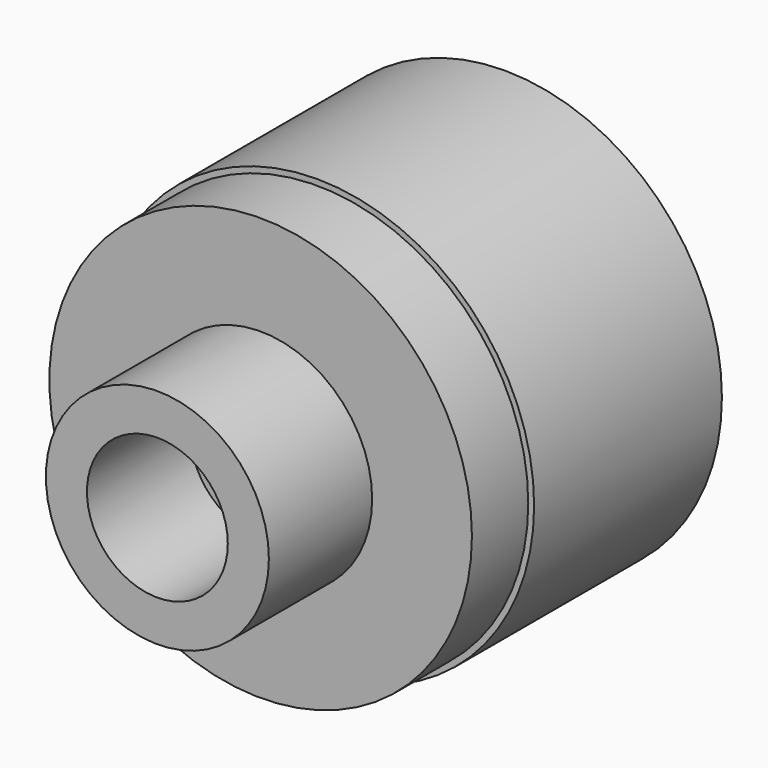
from build123d import *

# Parameters (mm, degrees)
F0_R     = 3.7
F0_R_2   = 3.2
F1_DEPTH = 4
F2_R     = 3.6
F3_DEPTH = 1.2
F4_R     = 1.9
F4_R_2   = 1.2
F5_DEPTH = 2.2


with BuildPart() as f1:
    # F0 (on Front) → F1 (new body)
    with BuildSketch(Plane.XZ):
        Circle(F0_R)
        Circle(F0_R_2, mode=Mode.SUBTRACT)
    extrude(amount=F1_DEPTH)

    # F2 (on face) → F3 (join)
    with BuildSketch(Plane.XZ.offset(4)):
        Circle(F2_R)
    extrude(amount=F3_DEPTH)

    # F4 (on face) → F5 (join)
    with BuildSketch(Plane.XZ.offset(5.2)):
        Circle(F4_R)
        Circle(F4_R_2, mode=Mode.SUBTRACT)
    extrude(amount=F5_DEPTH)


solid = f1.part
